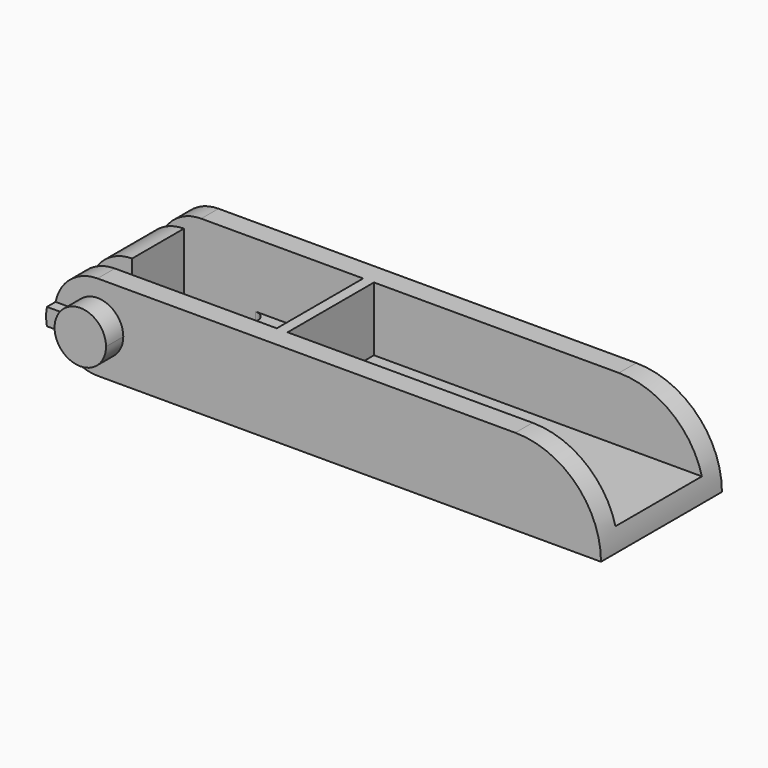
from build123d import *

# Parameters (mm, degrees)
F1_DEPTH = 3.5
F2_DEPTH = 4.5
F3_DEPTH = 4
F4_W     = 1.984375
F4_H     = 1
F5_DEPTH = 25
F6_START = 1
F4_W_2   = 15.314116451
F4_H_2   = 5
F6_DEPTH = 2.96975


with BuildPart() as f1:
    # F0 (on Front) → F1 (new body, symmetric)
    with BuildSketch(Plane.XZ):
        with BuildLine():
            ThreePointArc((1.984375, 1.984375), (1.4031650189, 0.5812099811), (0, 0))
            Line((0, 0), (23.314116451, 0))
            ThreePointArc((23.314116451, 0), (22.1516964889, 2.8063300378), (19.345366451, 3.96875))
            Line((19.345366451, 3.96875), (0, 3.96875))
            ThreePointArc((0, 3.96875), (1.4031650189, 3.3875400189), (1.984375, 1.984375))
        make_face()
        with BuildLine():
            ThreePointArc((-1.9442824833, 1.5875), (-1.2550289464, 0.4472847345), (0, 0))
            ThreePointArc((0, 0), (1.4031650189, 0.5812099811), (1.984375, 1.984375))
            ThreePointArc((1.984375, 1.984375), (1.4031650189, 3.3875400189), (0, 3.96875))
            ThreePointArc((0, 3.96875), (-1.2550289464, 3.5214652655), (-1.9442824833, 2.38125))
            Line((-1.9442824833, 2.38125), (-1.1225320151, 2.38125))
            ThreePointArc((-1.1225320151, 2.38125), (0.2013370434, 3.1578532851), (1.190625, 1.984375))
            ThreePointArc((1.190625, 1.984375), (0.2013370434, 0.8108967149), (-1.1225320151, 1.5875))
            Line((-1.1225320151, 1.5875), (-1.9442824833, 1.5875))
        make_face()
        with BuildLine():
            ThreePointArc((-1.9442824833, 2.38125), (-1.984375, 1.984375), (-1.9442824833, 1.5875))
            Line((-1.9442824833, 1.5875), (-1.1225320151, 1.5875))
            ThreePointArc((-1.1225320151, 1.5875), (-1.190625, 1.984375), (-1.1225320151, 2.38125))
            Line((-1.1225320151, 2.38125), (-1.9442824833, 2.38125))
        make_face()
    extrude(amount=F1_DEPTH, both=True)

    # F0 (on Front) → F2 (join, symmetric)
    with BuildSketch(Plane.XZ):
        with BuildLine():
            ThreePointArc((-1.1225320151, 2.38125), (-1.190625, 1.984375), (-1.1225320151, 1.5875))
            ThreePointArc((-1.1225320151, 1.5875), (0.2013370434, 0.8108967149), (1.190625, 1.984375))
            ThreePointArc((1.190625, 1.984375), (0.2013370434, 3.1578532851), (-1.1225320151, 2.38125))
        make_face()
    extrude(amount=F2_DEPTH, both=True)

    # F0 (on Front) → F3 (join, symmetric)
    with BuildSketch(Plane.XZ):
        with BuildLine():
            ThreePointArc((-1.9442824833, 2.38125), (-1.984375, 1.984375), (-1.9442824833, 1.5875))
            Line((-1.9442824833, 1.5875), (-1.1225320151, 1.5875))
            ThreePointArc((-1.1225320151, 1.5875), (-1.190625, 1.984375), (-1.1225320151, 2.38125))
            Line((-1.1225320151, 2.38125), (-1.9442824833, 2.38125))
        make_face()
    extrude(amount=F3_DEPTH, both=True)

    # F4 (on Top) → F5 (cut)
    with BuildSketch(Plane.XY):
        with Locations((-0.9921875, 2)):
            Rectangle(F4_W, F4_H)
        with BuildLine():
            Line((0, 2.5), (0, 1.5))
            Line((0, 1.5), (2.515625, 1.5))
            ThreePointArc((2.515625, 1.5), (3.015625, 2), (2.515625, 2.5))
            Line((2.515625, 2.5), (0, 2.5))
        make_face()
        with Locations((-0.9921875, -2)):
            Rectangle(F4_W, F4_H)
        with BuildLine():
            Line((0, -1.5), (0, -2.5))
            Line((0, -2.5), (2.515625, -2.5))
            ThreePointArc((2.515625, -2.5), (3.015625, -2), (2.515625, -1.5))
            Line((2.515625, -1.5), (0, -1.5))
        make_face()
    extrude(amount=F5_DEPTH, mode=Mode.SUBTRACT)

    # F4 (on Top) → F6 (cut)
    with BuildSketch(Plane.XY.offset(F6_START)):
        with BuildLine():
            ThreePointArc((2.515625, -1.5), (3.015625, -2), (2.515625, -2.5))
            Line((2.515625, -2.5), (7.5, -2.5))
            Line((7.5, -2.5), (7.5, 2.5))
            Line((7.5, 2.5), (2.515625, 2.5))
            ThreePointArc((2.515625, 2.5), (3.015625, 2), (2.515625, 1.5))
            Line((2.515625, 1.5), (0, 1.5))
            Line((0, 1.5), (0, -1.5))
            Line((0, -1.5), (2.515625, -1.5))
        make_face()
        with Locations((15.6570582255, 0)):
            Rectangle(F4_W_2, F4_H_2)
    extrude(amount=F6_DEPTH, mode=Mode.SUBTRACT)


solid = f1.part
